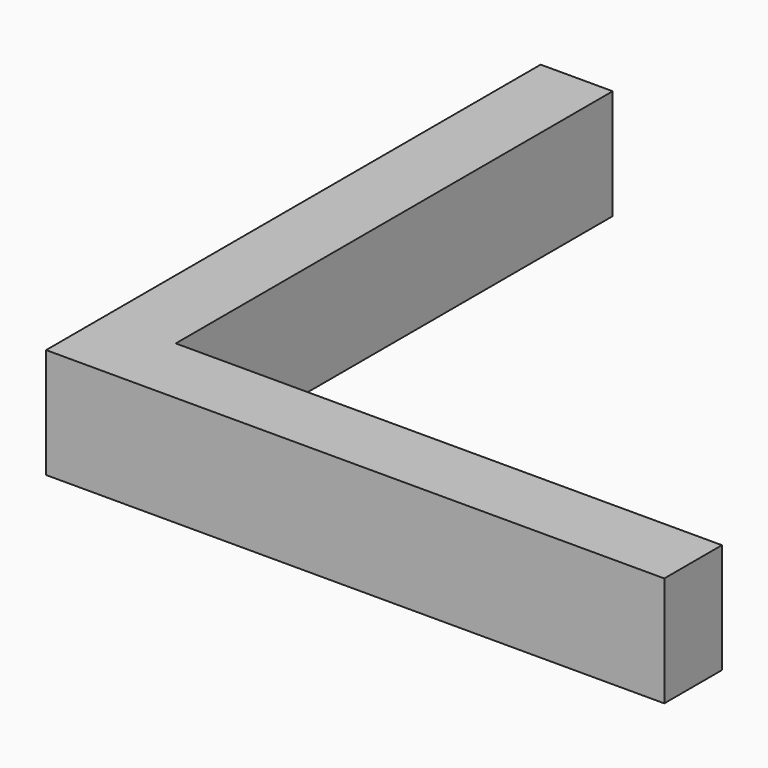
from build123d import *

# Parameters (mm, degrees)
F0_W     = 16.1
F0_H     = 6
F0_W_2   = 6
F0_H_2   = 16.1
F0_W_3   = 0.7
F0_H_3   = 0.7
F1_DEPTH = 11.3
F2_DEPTH = 6
F3_DEPTH = 10


with BuildPart() as f1:
    # F0 (on Top) → F1 (new body)
    with BuildSketch(Plane.XY):
        with BuildLine():
            ThreePointArc((59.8, 6.7), (56.8, 3.7), (59.8, 0.7))
            ThreePointArc((59.8, 0.7), (61.9213203436, 1.5786796564), (62.8, 3.7))
            ThreePointArc((62.8, 3.7), (61.9213203436, 5.8213203436), (59.8, 6.7))
        make_face()
        with BuildLine():
            Line((7.4, 0.7), (7.4, 0))
            Line((7.4, 0), (59.8, 0))
            ThreePointArc((59.8, 0), (58.6620193323, 0.1793466515), (57.6343592172, 0.7))
            Line((57.6343592172, 0.7), (39.8, 0.7))
            Line((39.8, 0.7), (23.7, 0.7))
            Line((23.7, 0.7), (7.4, 0.7))
        make_face()
        with BuildLine():
            Line((3.7, 0.7), (5.8656407828, 0.7))
            ThreePointArc((5.8656407828, 0.7), (6.9941517039, 2.0151959901), (7.4, 3.7))
            ThreePointArc((7.4, 3.7), (7.2206533485, 4.8379806677), (6.7, 5.8656407828))
            Line((6.7, 5.8656407828), (6.7, 3.7))
            ThreePointArc((6.7, 3.7), (5.8213203436, 1.5786796564), (3.7, 0.7))
        make_face()
        with BuildLine():
            Line((0.7, 59.8), (0.7, 57.6343592172))
            ThreePointArc((0.7, 57.6343592172), (3.7, 56.1), (6.7, 57.6343592172))
            Line((6.7, 57.6343592172), (6.7, 59.8))
            ThreePointArc((6.7, 59.8), (3.7, 56.8), (0.7, 59.8))
        make_face()
        Polygon((0.7, 23.7), (0.7, 7.4), (3.7, 7.4), (6.7, 7.4), (6.7, 23.7), align=None)
        with BuildLine():
            Line((39.8, 0.7), (57.6343592172, 0.7))
            ThreePointArc((57.6343592172, 0.7), (56.1, 3.7), (57.6343592172, 6.7))
            Line((57.6343592172, 6.7), (39.8, 6.7))
            Line((39.8, 6.7), (39.8, 0.7))
        make_face()
        with BuildLine():
            ThreePointArc((3.7, 6.7), (5.8213203436, 5.8213203436), (6.7, 3.7))
            Line((6.7, 3.7), (6.7, 5.8656407828))
            ThreePointArc((6.7, 5.8656407828), (6.3162950904, 6.3162950904), (5.8656407828, 6.7))
            Line((5.8656407828, 6.7), (3.7, 6.7))
        make_face()
        with BuildLine():
            Line((6.7, 23.7), (6.7, 7.4))
            Line((6.7, 7.4), (7.4, 7.4))
            Line((7.4, 7.4), (7.4, 59.8))
            ThreePointArc((7.4, 59.8), (7.2206533485, 58.6620193323), (6.7, 57.6343592172))
            Line((6.7, 57.6343592172), (6.7, 39.8))
            Line((6.7, 39.8), (6.7, 23.7))
        make_face()
        with BuildLine():
            ThreePointArc((57.6343592172, 0.7), (58.6620193323, 0.1793466515), (59.8, 0))
            ThreePointArc((59.8, 0), (62.4162950904, 1.0837049096), (63.5, 3.7))
            ThreePointArc((63.5, 3.7), (62.4162950904, 6.3162950904), (59.8, 7.4))
            ThreePointArc((59.8, 7.4), (58.6620193323, 7.2206533485), (57.6343592172, 6.7))
            Line((57.6343592172, 6.7), (59.8, 6.7))
            ThreePointArc((59.8, 6.7), (61.9213203436, 5.8213203436), (62.8, 3.7))
            ThreePointArc((62.8, 3.7), (61.9213203436, 1.5786796564), (59.8, 0.7))
            Line((59.8, 0.7), (57.6343592172, 0.7))
        make_face()
        with BuildLine():
            Line((0, 63.5), (0, 59.8))
            ThreePointArc((0, 59.8), (1.0837049096, 62.4162950904), (3.7, 63.5))
            Line((3.7, 63.5), (0, 63.5))
        make_face()
        with BuildLine():
            ThreePointArc((63.5, 3.7), (62.4162950904, 1.0837049096), (59.8, 0))
            Line((59.8, 0), (63.5, 0))
            Line((63.5, 0), (63.5, 3.7))
        make_face()
        with BuildLine():
            Line((7.4, 63.5), (3.7, 63.5))
            ThreePointArc((3.7, 63.5), (6.3162950904, 62.4162950904), (7.4, 59.8))
            Line((7.4, 59.8), (7.4, 63.5))
        make_face()
        with BuildLine():
            ThreePointArc((59.8, 7.4), (62.4162950904, 6.3162950904), (63.5, 3.7))
            Line((63.5, 3.7), (63.5, 7.4))
            Line((63.5, 7.4), (59.8, 7.4))
        make_face()
        with BuildLine():
            Line((0, 59.8), (0, 7.4))
            Line((0, 7.4), (0.7, 7.4))
            Line((0.7, 7.4), (0.7, 23.7))
            Line((0.7, 23.7), (0.7, 39.8))
            Line((0.7, 39.8), (0.7, 57.6343592172))
            ThreePointArc((0.7, 57.6343592172), (0.1793466515, 58.6620193323), (0, 59.8))
        make_face()
        with BuildLine():
            ThreePointArc((57.6343592172, 6.7), (56.1, 3.7), (57.6343592172, 0.7))
            Line((57.6343592172, 0.7), (59.8, 0.7))
            ThreePointArc((59.8, 0.7), (56.8, 3.7), (59.8, 6.7))
            Line((59.8, 6.7), (57.6343592172, 6.7))
        make_face()
        with BuildLine():
            ThreePointArc((6.7, 57.6343592172), (3.7, 56.1), (0.7, 57.6343592172))
            Line((0.7, 57.6343592172), (0.7, 39.8))
            Line((0.7, 39.8), (6.7, 39.8))
            Line((6.7, 39.8), (6.7, 57.6343592172))
        make_face()
        Polygon((7.4, 3.7), (7.4, 0.7), (23.7, 0.7), (23.7, 6.7), (7.4, 6.7), align=None)
        with BuildLine():
            ThreePointArc((3.7, 7.4), (2.0151959901, 6.9941517039), (0.7, 5.8656407828))
            Line((0.7, 5.8656407828), (0.7, 3.7))
            ThreePointArc((0.7, 3.7), (1.5786796564, 5.8213203436), (3.7, 6.7))
            Line((3.7, 6.7), (5.8656407828, 6.7))
            ThreePointArc((5.8656407828, 6.7), (4.8379806677, 7.2206533485), (3.7, 7.4))
        make_face()
        with Locations((31.75, 3.7)):
            Rectangle(F0_W, F0_H)
        with BuildLine():
            ThreePointArc((6.7, 59.8), (3.7, 62.8), (0.7, 59.8))
            ThreePointArc((0.7, 59.8), (3.7, 56.8), (6.7, 59.8))
        make_face()
        with BuildLine():
            ThreePointArc((0, 3.7000000003), (1.0837049095, 1.0837049097), (3.7, 0))
            ThreePointArc((3.7, 0), (4.8379806677, 0.1793466515), (5.8656407828, 0.7))
            Line((5.8656407828, 0.7), (3.7, 0.7))
            ThreePointArc((3.7, 0.7), (1.5786796564, 1.5786796564), (0.7, 3.7))
            Line((0.7, 3.7), (0.7, 5.8656407828))
            ThreePointArc((0.7, 5.8656407828), (0.1793466516, 4.8379806678), (0, 3.7000000003))
        make_face()
        with BuildLine():
            ThreePointArc((3.7, 63.5), (1.0837049096, 62.4162950904), (0, 59.8))
            ThreePointArc((0, 59.8), (0.1793466515, 58.6620193323), (0.7, 57.6343592172))
            Line((0.7, 57.6343592172), (0.7, 59.8))
            ThreePointArc((0.7, 59.8), (3.7, 62.8), (6.7, 59.8))
            Line((6.7, 59.8), (6.7, 57.6343592172))
            ThreePointArc((6.7, 57.6343592172), (7.2206533485, 58.6620193323), (7.4, 59.8))
            ThreePointArc((7.4, 59.8), (6.3162950904, 62.4162950904), (3.7, 63.5))
        make_face()
        with Locations((3.7, 31.75)):
            Rectangle(F0_W_2, F0_H_2)
        with BuildLine():
            ThreePointArc((0.7, 3.7), (1.5786796564, 1.5786796564), (3.7, 0.7))
            ThreePointArc((3.7, 0.7), (5.8213203436, 1.5786796564), (6.7, 3.7))
            ThreePointArc((6.7, 3.7), (5.8213203436, 5.8213203436), (3.7, 6.7))
            ThreePointArc((3.7, 6.7), (1.5786796564, 5.8213203436), (0.7, 3.7))
        make_face()
        with BuildLine():
            Line((0, 3.7000000003), (0, 0))
            Line((0, 0), (3.7, 0))
            ThreePointArc((3.7, 0), (1.0837049095, 1.0837049097), (0, 3.7000000003))
        make_face()
        with BuildLine():
            ThreePointArc((5.8656407828, 6.7), (6.3162950904, 6.3162950904), (6.7, 5.8656407828))
            Line((6.7, 5.8656407828), (6.7, 6.7))
            Line((6.7, 6.7), (5.8656407828, 6.7))
        make_face()
        with BuildLine():
            Line((7.4, 7.4), (7.4, 6.7))
            Line((7.4, 6.7), (23.7, 6.7))
            Line((23.7, 6.7), (39.8, 6.7))
            Line((39.8, 6.7), (57.6343592172, 6.7))
            ThreePointArc((57.6343592172, 6.7), (58.6620193323, 7.2206533485), (59.8, 7.4))
            Line((59.8, 7.4), (7.4, 7.4))
        make_face()
        with BuildLine():
            ThreePointArc((5.8656407828, 0.7), (4.8379806677, 0.1793466515), (3.7, 0))
            Line((3.7, 0), (7.4, 0))
            Line((7.4, 0), (7.4, 0.7))
            Line((7.4, 0.7), (5.8656407828, 0.7))
        make_face()
        with BuildLine():
            Line((0.7, 7.4), (0.7, 5.8656407828))
            ThreePointArc((0.7, 5.8656407828), (2.0151959901, 6.9941517039), (3.7, 7.4))
            Line((3.7, 7.4), (0.7, 7.4))
        make_face()
        with BuildLine():
            Line((0, 7.4), (0, 3.7000000003))
            ThreePointArc((0, 3.7000000003), (0.1793466516, 4.8379806678), (0.7, 5.8656407828))
            Line((0.7, 5.8656407828), (0.7, 7.4))
            Line((0.7, 7.4), (0, 7.4))
        make_face()
        with BuildLine():
            Line((6.7, 7.4), (3.7, 7.4))
            ThreePointArc((3.7, 7.4), (4.8379806677, 7.2206533485), (5.8656407828, 6.7))
            Line((5.8656407828, 6.7), (6.7, 6.7))
            Line((6.7, 6.7), (6.7, 7.4))
        make_face()
        with BuildLine():
            ThreePointArc((7.4, 3.7), (6.9941517039, 2.0151959901), (5.8656407828, 0.7))
            Line((5.8656407828, 0.7), (7.4, 0.7))
            Line((7.4, 0.7), (7.4, 3.7))
        make_face()
        with BuildLine():
            ThreePointArc((6.7, 5.8656407828), (7.2206533485, 4.8379806677), (7.4, 3.7))
            Line((7.4, 3.7), (7.4, 6.7))
            Line((7.4, 6.7), (6.7, 6.7))
            Line((6.7, 6.7), (6.7, 5.8656407828))
        make_face()
        with Locations((7.05, 7.05)):
            Rectangle(F0_W_3, F0_H_3)
    extrude(amount=F1_DEPTH)

    # F0 (on Top) → F2 (cut)
    with BuildSketch(Plane.XY):
        with BuildLine():
            ThreePointArc((6.7, 59.8), (3.7, 62.8), (0.7, 59.8))
            ThreePointArc((0.7, 59.8), (3.7, 56.8), (6.7, 59.8))
        make_face()
        with BuildLine():
            ThreePointArc((0.7, 3.7), (1.5786796564, 1.5786796564), (3.7, 0.7))
            ThreePointArc((3.7, 0.7), (5.8213203436, 1.5786796564), (6.7, 3.7))
            ThreePointArc((6.7, 3.7), (5.8213203436, 5.8213203436), (3.7, 6.7))
            ThreePointArc((3.7, 6.7), (1.5786796564, 5.8213203436), (0.7, 3.7))
        make_face()
        with BuildLine():
            ThreePointArc((59.8, 6.7), (56.8, 3.7), (59.8, 0.7))
            ThreePointArc((59.8, 0.7), (61.9213203436, 1.5786796564), (62.8, 3.7))
            ThreePointArc((62.8, 3.7), (61.9213203436, 5.8213203436), (59.8, 6.7))
        make_face()
    extrude(amount=F2_DEPTH, mode=Mode.SUBTRACT)

    # F0 (on Top) → F3 (cut)
    with BuildSketch(Plane.XY):
        with BuildLine():
            ThreePointArc((6.7, 57.6343592172), (3.7, 56.1), (0.7, 57.6343592172))
            Line((0.7, 57.6343592172), (0.7, 39.8))
            Line((0.7, 39.8), (6.7, 39.8))
            Line((6.7, 39.8), (6.7, 57.6343592172))
        make_face()
        Polygon((0.7, 23.7), (0.7, 7.4), (3.7, 7.4), (6.7, 7.4), (6.7, 23.7), align=None)
        with BuildLine():
            Line((39.8, 0.7), (57.6343592172, 0.7))
            ThreePointArc((57.6343592172, 0.7), (56.1, 3.7), (57.6343592172, 6.7))
            Line((57.6343592172, 6.7), (39.8, 6.7))
            Line((39.8, 6.7), (39.8, 0.7))
        make_face()
        Polygon((7.4, 3.7), (7.4, 0.7), (23.7, 0.7), (23.7, 6.7), (7.4, 6.7), align=None)
    extrude(amount=F3_DEPTH, mode=Mode.SUBTRACT)


solid = f1.part
